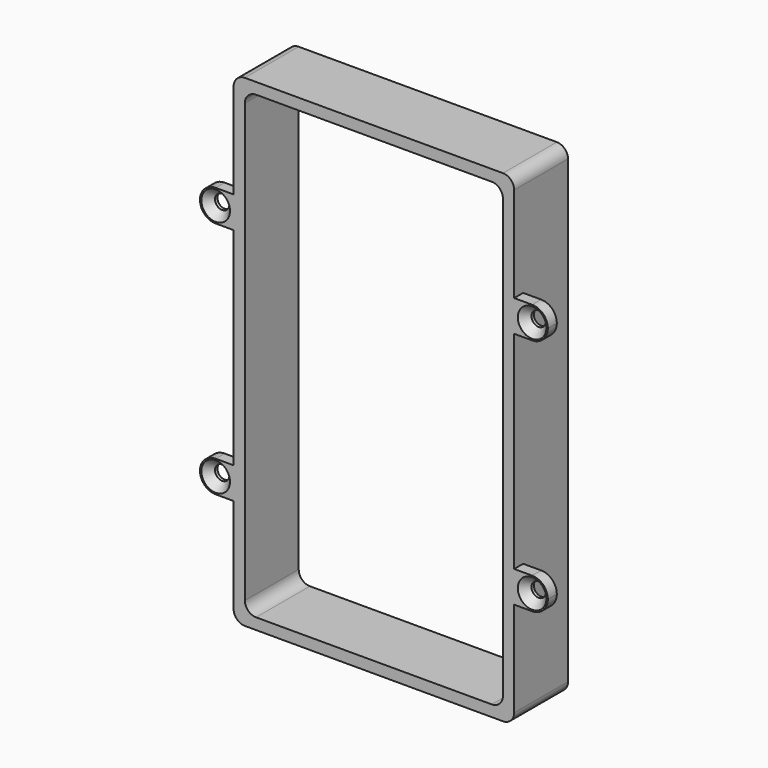
from build123d import *

# Parameters (mm, degrees)
F1_DEPTH       = 15.24
F3_DEPTH       = 2.54
F5_D           = 3.2639
F5_CSINK_D     = 6.477
F5_CSINK_ANGLE = 82
F7_DEPTH       = 15.241


with BuildPart() as f1:
    # F0 (on Front) → F1 (new body)
    with BuildSketch(Plane.XZ):
        with BuildLine():
            ThreePointArc((-31.75, -52.07), (-31.0060512242, -53.8660512242), (-29.21, -54.61))
            Line((-29.21, -54.61), (29.21, -54.61))
            ThreePointArc((29.21, -54.61), (31.0060512242, -53.8660512242), (31.75, -52.07))
            Line((31.75, -52.07), (31.75, 52.07))
            ThreePointArc((31.75, 52.07), (31.0060512242, 53.8660512242), (29.21, 54.61))
            Line((29.21, 54.61), (-29.21, 54.61))
            ThreePointArc((-29.21, 54.61), (-31.0060512242, 53.8660512242), (-31.75, 52.07))
            Line((-31.75, 52.07), (-31.75, -52.07))
        make_face()
    extrude(amount=F1_DEPTH)

    # F2 (on face) → F3 (join)
    with BuildSketch(Plane.XZ.offset(15.24)):
        with BuildLine():
            Line((-31.75, 23.4315), (-31.75, 30.5435))
            Line((-31.75, 30.5435), (-35.814, 30.5435))
            ThreePointArc((-35.814, 30.5435), (-38.3284717139, 29.5019717139), (-39.37, 26.9875))
            ThreePointArc((-39.37, 26.9875), (-38.3284717139, 24.4730282861), (-35.814, 23.4315))
            Line((-35.814, 23.4315), (-31.75, 23.4315))
        make_face()
        with BuildLine():
            Line((-31.75, -30.5435), (-31.75, -23.4315))
            Line((-31.75, -23.4315), (-35.814, -23.4315))
            ThreePointArc((-35.814, -23.4315), (-38.3284717139, -24.4730282861), (-39.37, -26.9875))
            ThreePointArc((-39.37, -26.9875), (-38.3284717139, -29.5019717139), (-35.814, -30.5435))
            Line((-35.814, -30.5435), (-31.75, -30.5435))
        make_face()
        with BuildLine():
            Line((35.814, 30.5435), (31.75, 30.5435))
            Line((31.75, 30.5435), (31.75, 23.4315))
            Line((31.75, 23.4315), (35.814, 23.4315))
            ThreePointArc((35.814, 23.4315), (38.3284717139, 24.4730282861), (39.37, 26.9875))
            ThreePointArc((39.37, 26.9875), (38.3284717139, 29.5019717139), (35.814, 30.5435))
        make_face()
        with BuildLine():
            Line((31.75, -23.4315), (31.75, -30.5435))
            Line((31.75, -30.5435), (35.814, -30.5435))
            ThreePointArc((35.814, -30.5435), (38.3284717139, -29.5019717139), (39.37, -26.9875))
            ThreePointArc((39.37, -26.9875), (38.3284717139, -24.4730282861), (35.814, -23.4315))
            Line((35.814, -23.4315), (31.75, -23.4315))
        make_face()
    extrude(amount=-F3_DEPTH)

    # F5 (through all)
    with Locations(Plane.XZ.offset(15.24)):
        with Locations((-35.814, 26.9875), (-35.814, -26.9875), (35.814, 26.9875), (35.814, -26.9875)):
            CounterSinkHole(F5_D / 2, F5_CSINK_D / 2, counter_sink_angle=F5_CSINK_ANGLE)

    # F6 (on face) → F7 (cut, through all)
    with BuildSketch(Plane.XZ.offset(15.24)):
        with BuildLine():
            Line((-26.67, -52.07), (26.67, -52.07))
            ThreePointArc((26.67, -52.07), (28.4660512242, -51.3260512242), (29.21, -49.53))
            Line((29.21, -49.53), (29.21, 49.53))
            ThreePointArc((29.21, 49.53), (28.4660512242, 51.3260512242), (26.67, 52.07))
            Line((26.67, 52.07), (-26.67, 52.07))
            ThreePointArc((-26.67, 52.07), (-28.4660512242, 51.3260512242), (-29.21, 49.53))
            Line((-29.21, 49.53), (-29.21, -49.53))
            ThreePointArc((-29.21, -49.53), (-28.4660512242, -51.3260512242), (-26.67, -52.07))
        make_face()
    extrude(amount=-F7_DEPTH, mode=Mode.SUBTRACT)


solid = f1.part
